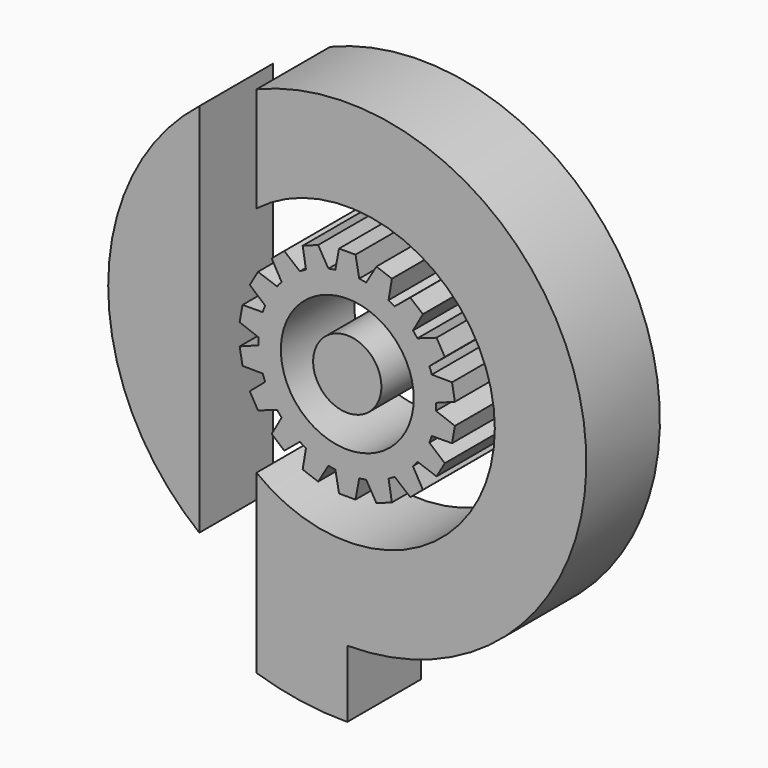
from build123d import *

# Parameters (mm, degrees)
F0_R     = 10.83954
F0_R_2   = 5.565876
F1_DEPTH = 15
F2_DEPTH = 15


with BuildPart() as f1:
    # F0 (on Front) → F1 (new body)
    with BuildSketch(Plane.XZ):
        with BuildLine():
            Line((-17.554518, 7.21844), (-14.464271, 6.060695))
            ThreePointArc((-14.464271, 6.060695), (-14.475635, 5.48722), (-14.464271, 4.913746))
            Line((-14.464271, 4.913746), (-17.554518, 3.756001))
            Line((-17.554518, 3.756001), (-17.087963, 1.110036))
            Line((-17.087963, 1.110036), (-13.788108, 1.079038))
            ThreePointArc((-13.788108, 1.079038), (-13.602647, 0.536262), (-13.395829, 0.001259))
            Line((-13.395829, 0.001259), (-15.903739, -2.143593))
            Line((-15.903739, -2.143593), (-14.560347, -4.470415))
            Line((-14.560347, -4.470415), (-11.448897, -3.370927))
            ThreePointArc((-11.448897, -3.370927), (-11.08898, -3.817538), (-10.711652, -4.249541))
            Line((-10.711652, -4.249541), (-12.334734, -7.122797))
            Line((-12.334734, -7.122797), (-10.276539, -8.849828))
            Line((-10.276539, -8.849828), (-7.728779, -6.752468))
            ThreePointArc((-7.728779, -6.752468), (-7.237817, -7.049047), (-6.735492, -7.325943))
            Line((-6.735492, -7.325943), (-7.277979, -10.581048))
            Line((-7.277979, -10.581048), (-4.753228, -11.499982))
            Line((-4.753228, -11.499982), (-3.076457, -8.657723))
            ThreePointArc((-3.076457, -8.657723), (-2.513668, -8.768497), (-1.946932, -8.856889))
            Line((-1.946932, -8.856889), (-1.343392, -12.101228))
            Line((-1.343392, -12.101228), (1.343392, -12.101228))
            Line((1.343392, -12.101228), (1.946932, -8.856889))
            ThreePointArc((1.946932, -8.856889), (2.513668, -8.768497), (3.076457, -8.657723))
            Line((3.076457, -8.657723), (4.753228, -11.499982))
            Line((4.753228, -11.499982), (7.277979, -10.581048))
            Line((7.277979, -10.581048), (6.735492, -7.325943))
            ThreePointArc((6.735492, -7.325943), (7.237817, -7.049047), (7.728779, -6.752468))
            Line((7.728779, -6.752468), (10.276539, -8.849828))
            Line((10.276539, -8.849828), (12.334734, -7.122797))
            Line((12.334734, -7.122797), (10.711652, -4.249541))
            ThreePointArc((10.711652, -4.249541), (11.08898, -3.817538), (11.448897, -3.370927))
            Line((11.448897, -3.370927), (14.560347, -4.470415))
            Line((14.560347, -4.470415), (15.903739, -2.143593))
            Line((15.903739, -2.143593), (13.395829, 0.001259))
            ThreePointArc((13.395829, 0.001259), (13.602647, 0.536262), (13.788108, 1.079038))
            Line((13.788108, 1.079038), (17.087963, 1.110036))
            Line((17.087963, 1.110036), (17.554518, 3.756001))
            Line((17.554518, 3.756001), (14.464271, 4.913746))
            ThreePointArc((14.464271, 4.913746), (14.475635, 5.48722), (14.464271, 6.060695))
            Line((14.464271, 6.060695), (17.554518, 7.21844))
            Line((17.554518, 7.21844), (17.087963, 9.864405))
            Line((17.087963, 9.864405), (13.788108, 9.895402))
            ThreePointArc((13.788108, 9.895402), (13.602647, 10.438179), (13.395829, 10.973182))
            Line((13.395829, 10.973182), (15.903739, 13.118033))
            Line((15.903739, 13.118033), (14.560347, 15.444856))
            Line((14.560347, 15.444856), (11.448897, 14.345367))
            ThreePointArc((11.448897, 14.345367), (11.08898, 14.791979), (10.711652, 15.223982))
            Line((10.711652, 15.223982), (12.334734, 18.097238))
            Line((12.334734, 18.097238), (10.276539, 19.824269))
            Line((10.276539, 19.824269), (7.728779, 17.726909))
            ThreePointArc((7.728779, 17.726909), (7.237817, 18.023488), (6.735492, 18.300384))
            Line((6.735492, 18.300384), (7.277979, 21.555489))
            Line((7.277979, 21.555489), (4.753228, 22.474423))
            Line((4.753228, 22.474423), (3.076457, 19.632164))
            ThreePointArc((3.076457, 19.632164), (2.513668, 19.742938), (1.946932, 19.831329))
            Line((1.946932, 19.831329), (1.343392, 23.075669))
            Line((1.343392, 23.075669), (-1.343392, 23.075669))
            Line((-1.343392, 23.075669), (-1.946932, 19.831329))
            ThreePointArc((-1.946932, 19.831329), (-2.513668, 19.742938), (-3.076457, 19.632164))
            Line((-3.076457, 19.632164), (-4.753228, 22.474423))
            Line((-4.753228, 22.474423), (-7.277979, 21.555489))
            Line((-7.277979, 21.555489), (-6.735492, 18.300384))
            ThreePointArc((-6.735492, 18.300384), (-7.237817, 18.023488), (-7.728779, 17.726909))
            Line((-7.728779, 17.726909), (-10.276539, 19.824269))
            Line((-10.276539, 19.824269), (-12.334734, 18.097238))
            Line((-12.334734, 18.097238), (-10.711652, 15.223982))
            ThreePointArc((-10.711652, 15.223982), (-11.08898, 14.791979), (-11.448897, 14.345367))
            Line((-11.448897, 14.345367), (-14.560347, 15.444856))
            Line((-14.560347, 15.444856), (-15.903739, 13.118033))
            Line((-15.903739, 13.118033), (-13.395829, 10.973182))
            ThreePointArc((-13.395829, 10.973182), (-13.602647, 10.438179), (-13.788108, 9.895402))
            Line((-13.788108, 9.895402), (-17.087963, 9.864405))
            Line((-17.087963, 9.864405), (-17.554518, 7.21844))
        make_face()
        with Locations((0, 5.48722)):
            Circle(F0_R, mode=Mode.SUBTRACT)
        with Locations((0, 5.48722)):
            Circle(F0_R_2)
    extrude(amount=F1_DEPTH)


with BuildPart() as f2:
    # F0 (on Front) → F2 (new body)
    with BuildSketch(Plane.XZ):
        with BuildLine():
            ThreePointArc((-14.808813, 24.46105), (24.0688, 5.48819), (-14.807285, -13.487802))
            Line((-14.807285, -13.487802), (-14.806596, -30.592756))
            Line((-14.806596, -30.592756), (-14.806126, -42.247675))
            ThreePointArc((-14.806126, -42.247675), (-7.489839, -43.937437), (0.00064, -44.462856))
            Line((0.00064, -44.462856), (0.00064, -33.51278))
            ThreePointArc((0.00064, -33.51278), (38.262665, 13.034965), (-14.809502, 41.566004))
            Line((-14.809502, 41.566004), (-14.808813, 24.46105))
        make_face()
        with BuildLine():
            Line((-24.136815, -25.146326), (-24.139283, 36.118822))
            ThreePointArc((-24.139283, 36.118822), (-39, 5.485649), (-24.136815, -25.146326))
        make_face()
    extrude(amount=F2_DEPTH)


solid = Compound([f1.part, f2.part])
